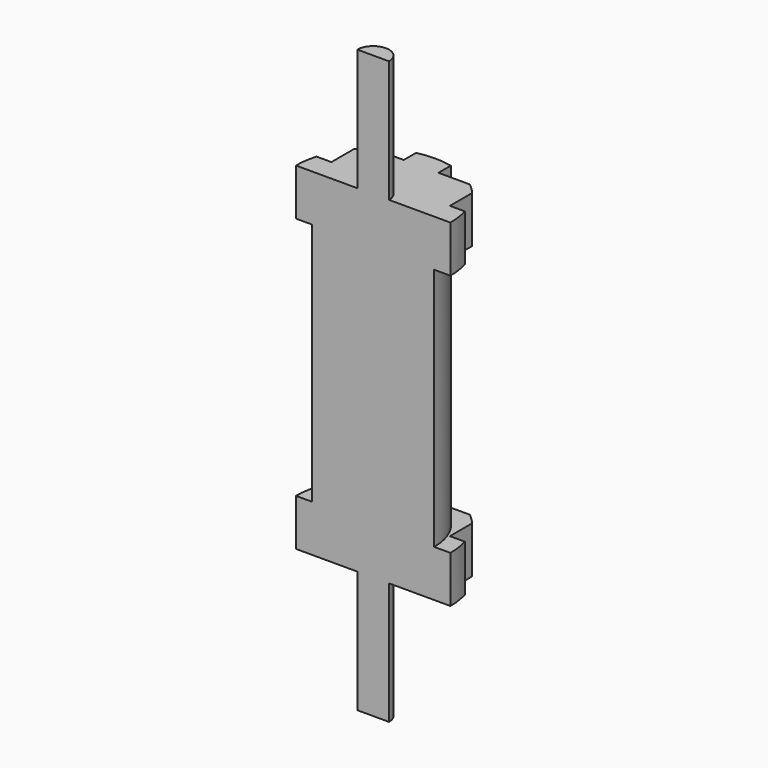
from build123d import *

# Parameters (mm, degrees)
F1_DEPTH = 41.5
F3_DEPTH = 30
F5_DEPTH = 30
F7_DEPTH = 113.001
F9_DEPTH = 30


with BuildPart() as f1:
    # F0 (on Top) → F1 (new body, symmetric)
    with BuildSketch(Plane.XY):
        with BuildLine():
            Line((-19, 0), (19, 0))
            ThreePointArc((19, 0), (0, 19), (-19, 0))
        make_face()
    extrude(amount=F1_DEPTH, both=True)

    # F2 (on face) → F3 (join)
    with BuildSketch(Plane.XY.offset(41.5)):
        with BuildLine():
            Line((-3.9, 0), (3.9, 0))
            ThreePointArc((3.9, 0), (0, 3.9), (-3.9, 0))
        make_face()
    extrude(amount=F3_DEPTH)

    # F4 (on face) → F5 (join)
    with BuildSketch(Plane(origin=(0, 0, -41.5), x_dir=(1, 0, 0), z_dir=(0, 0, -1))):
        with BuildLine():
            Line((3.9, 0), (-3.9, 0))
            ThreePointArc((-3.9, 0), (0, -3.9), (3.9, 0))
        make_face()
    extrude(amount=F5_DEPTH)

    # F6 (on face) → F7 (cut, through all)
    with BuildSketch(Plane.XY.offset(41.5)):
        with BuildLine():
            Line((-14.568067, 5.368078), (-14.568067, 12.197189))
            ThreePointArc((-14.568067, 12.197189), (-16.748743, 8.971042), (-18.225909, 5.368078))
            Line((-18.225909, 5.368078), (-14.568067, 5.368078))
        make_face()
        with BuildLine():
            Line((-4.264999, 14.724803), (-4.264999, 18.515123))
            ThreePointArc((-4.264999, 18.515123), (-8.354055, 17.06487), (-12.007505, 14.724803))
            Line((-12.007505, 14.724803), (-4.264999, 14.724803))
        make_face()
        with BuildLine():
            ThreePointArc((12.007505, 14.724803), (8.354055, 17.06487), (4.264999, 18.515123))
            Line((4.264999, 18.515123), (4.264999, 14.724803))
            Line((4.264999, 14.724803), (12.007505, 14.724803))
        make_face()
        with BuildLine():
            ThreePointArc((18.225909, 5.368078), (16.748743, 8.971042), (14.568067, 12.197189))
            Line((14.568067, 12.197189), (14.568067, 5.368078))
            Line((14.568067, 5.368078), (18.225909, 5.368078))
        make_face()
    extrude(amount=-F7_DEPTH, mode=Mode.SUBTRACT)

    # F8 (on Top) → F9 (cut, symmetric)
    with BuildSketch(Plane.XY):
        with BuildLine():
            Line((15, 0), (22.459483, 0))
            ThreePointArc((22.459483, 0), (0, 22.459483), (-22.459483, 0))
            Line((-22.459483, 0), (-15, 0))
            ThreePointArc((-15, 0), (0, 15), (15, 0))
        make_face()
    extrude(amount=F9_DEPTH, both=True, mode=Mode.SUBTRACT)


solid = f1.part
